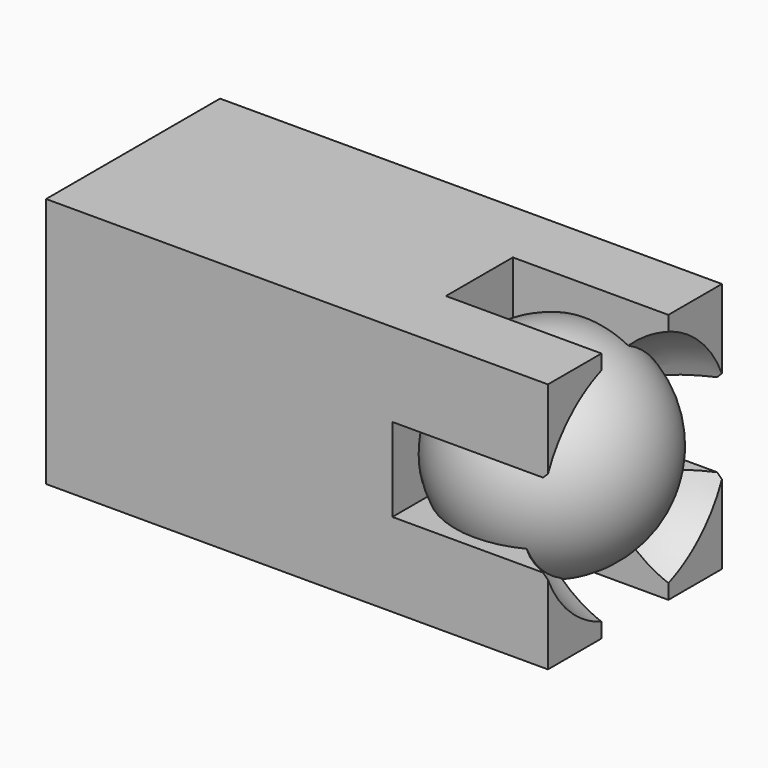
from build123d import *

# Parameters (mm, degrees)
F3_DEPTH  = 3
F5_W      = 4.2196343979
F5_H      = 2
F6_DEPTH  = 4
F7_ANGLE  = 90
F10_SCALE = 1.2


with BuildPart() as f1:
    # F0 (on Front) → F1 (revolve)
    with BuildSketch(Plane.XZ):
        with BuildLine():
            Line((0, -2.5), (0, 2.5))
            ThreePointArc((0, 2.5), (-2.5, 0), (0, -2.5))
        make_face()
    revolve(axis=Axis((0, 0, 0), (0, 0, -1)))


with BuildPart() as f3:
    # F2 (on Top) → F3 (new body, symmetric)
    with BuildSketch(Plane.XY):
        Polygon((2, 0), (2, 2.6), (-10, 2.6), (-10, 0), (-10, -2.6), (2, -2.6), align=None)
    extrude(amount=F3_DEPTH, both=True)

    # F4: cut F1
    add(f1.part, mode=Mode.SUBTRACT)


with BuildPart() as f6:
    # F5 (on Top) → F6 (new body, symmetric)
    with BuildSketch(Plane.XY):
        with Locations((0.3901828011, 0)):
            Rectangle(F5_W, F5_H)
    extrude(amount=F6_DEPTH, both=True)


with BuildPart() as f7_1:
    # F7: copy of F6
    add(f6.part.rotate(Axis((0.3765770234, 0, 0), (1, 0, 0)), F7_ANGLE))


with BuildPart() as f3_1:
    add(f3.part)

    # F8: cut F7_1
    add(f7_1.part, mode=Mode.SUBTRACT)

    # F9: cut F6
    add(f6.part, mode=Mode.SUBTRACT)


with BuildPart() as f10_1:
    # F10: copy of F1
    add(f1.part.scale(F10_SCALE))


with BuildPart() as f10_1_1:
    # F11: moved
    add(f10_1.part.moved(Location((3, 0, 0))))


with BuildPart() as f3_2:
    add(f3_1.part)

    # F12: cut F10_1
    add(f10_1_1.part, mode=Mode.SUBTRACT)


solid = Compound([f1.part, f3_2.part])
